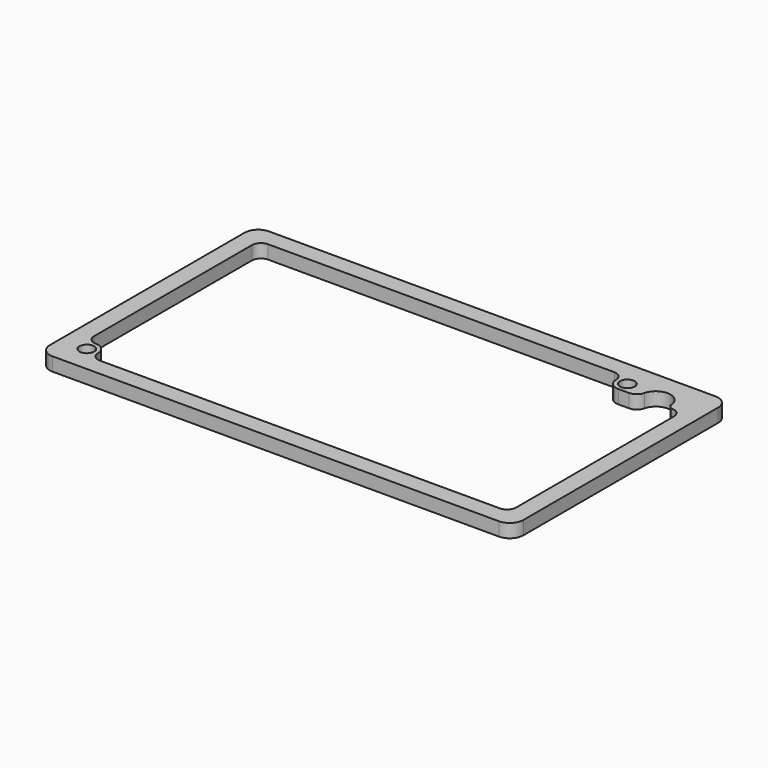
from build123d import *

# Parameters (mm, degrees)
SKETCH_W  = 105
SKETCH_H  = 60
SKETCH_R  = 1.63
PAD_DEPTH = 3
FILLET_R  = 3


with BuildPart() as part:
    # Sketch → Pad (new body)
    with BuildSketch(Plane.XY):
        Rectangle(SKETCH_W, SKETCH_H)
        with Locations((-46.605, -24.13)):
            Circle(SKETCH_R, mode=Mode.SUBTRACT)
        with Locations((34.67, 24.13)):
            Circle(SKETCH_R, mode=Mode.SUBTRACT)
        with BuildLine():
            ThreePointArc((-44.105, -24.13), (-44.837233, -22.362233), (-46.605, -21.63))
            ThreePointArc((-48.605, -19.63), (-48.019214, -21.044214), (-46.605, -21.63))
            Line((-48.605, 24.13), (-48.605, -19.63))
            ThreePointArc((-46.605, 26.13), (-48.019214, 25.544214), (-48.605, 24.13))
            Line((-46.605, 26.13), (30.175, 26.13))
            ThreePointArc((32.175, 24.13), (31.589213, 25.544214), (30.175, 26.13))
            ThreePointArc((32.175, 24.13), (32.905768, 22.365769), (34.67, 21.635))
            Line((34.67, 21.635), (37.07, 21.635))
            ThreePointArc((37.07, 21.635), (38.372303, 22.087576), (39.113281, 23.250234))
            ThreePointArc((45.525503, 22.5), (42.653179, 25.727981), (39.113281, 23.250234))
            ThreePointArc((45.525503, 22.5), (45.991385, 21.973349), (46.605, 21.630008))
            ThreePointArc((48.605, 19.630008), (48.019214, 21.044222), (46.605, 21.630008))
            Line((48.605, -24.129992), (48.605, 19.630008))
            ThreePointArc((46.605, -26.13), (48.019217, -25.544211), (48.605, -24.129992))
            Line((-42.105, -26.13), (46.605, -26.13))
            ThreePointArc((-44.105, -24.13), (-43.519214, -25.544214), (-42.105, -26.13))
        make_face(mode=Mode.SUBTRACT)
    extrude(amount=PAD_DEPTH)

    # Fillet
    fillet_edges = [part.edges().sort_by_distance(p)[0] for p in [
        (52.5, -30, 1.5),
        (-52.5, -30, 1.5),
        (-52.5, 30, 1.5),
        (52.5, 30, 1.5),
    ]]
    fillet(fillet_edges, radius=FILLET_R)


solid = part.part
